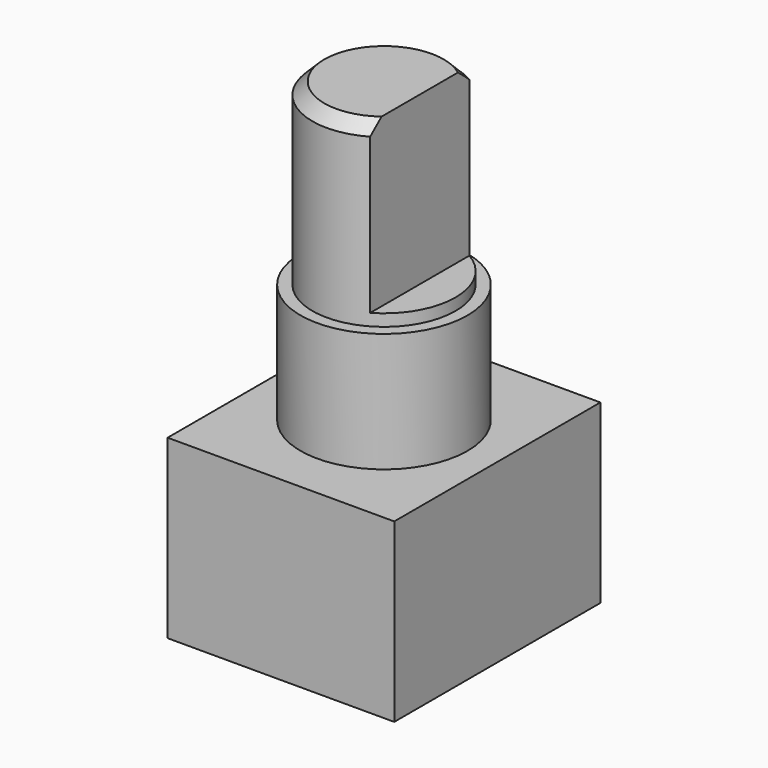
from build123d import *

# Parameters (mm, degrees)
SKETCH_W     = 9.5
SKETCH_H     = 10.8
PAD_DEPTH    = 7.4
SKETCH001_R  = 3.5
PAD001_DEPTH = 5
SKETCH002_R  = 3
PAD002_DEPTH = 12.5
SKETCH003_W  = 1.5
SKETCH003_H  = 7
POCKET_DEPTH = 3
CHAMFER_SIZE = 0.5


with BuildPart() as part:
    # Sketch → Pad (new body)
    with BuildSketch(Plane.XY):
        Rectangle(SKETCH_W, SKETCH_H)
    extrude(amount=-PAD_DEPTH)

    # Sketch001 → Pad001 (join)
    with BuildSketch(Plane.XY):
        Circle(SKETCH001_R)
    extrude(amount=PAD001_DEPTH)

    # Sketch002 → Pad002 (join)
    with BuildSketch(Plane.XY):
        Circle(SKETCH002_R)
    extrude(amount=PAD002_DEPTH)

    # Sketch003 → Pocket (cut, symmetric)
    with BuildSketch(Plane.XZ):
        with Locations((2.25, 9)):
            Rectangle(SKETCH003_W, SKETCH003_H)
    extrude(amount=POCKET_DEPTH, both=True, mode=Mode.SUBTRACT)

    # Chamfer
    chamfer_edges = [part.edges().sort_by_distance(p)[0] for p in [
        (-3, 0, 12.5),
    ]]
    chamfer(chamfer_edges, length=CHAMFER_SIZE)


solid = part.part
